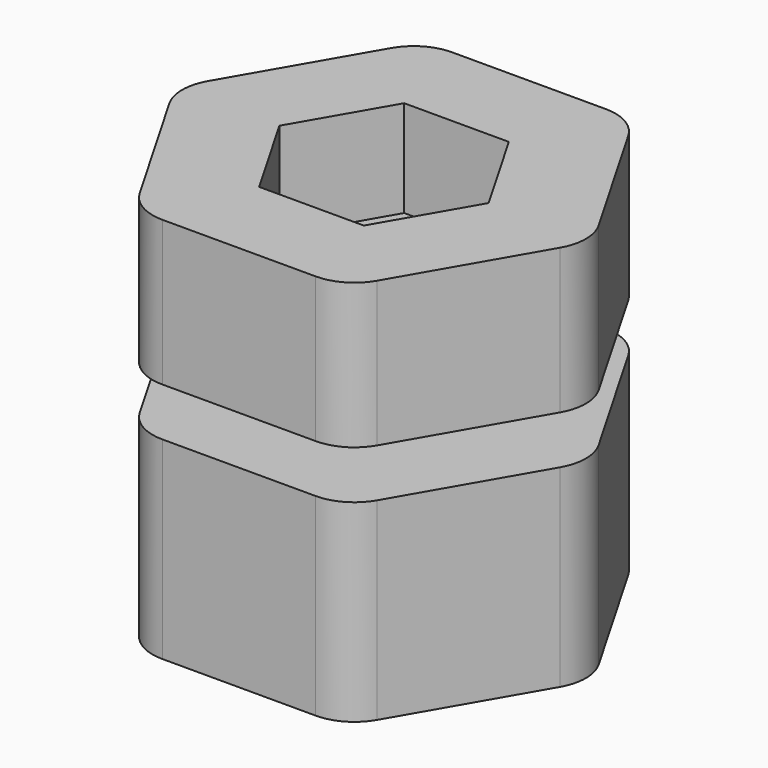
from build123d import *

# Parameters (mm, degrees)
F0_R     = 4.125
F0_R_2   = 3.625
F1_DEPTH = 8
F2_DEPTH = 6
F3_R     = 3.25
F4_DEPTH = 4
F5_R     = 3.25
F6_DEPTH = 6
F7_R     = 2.25
F8_DEPTH = 16.001
F9_DEPTH = 4
F10_R    = 2
F10_2_R  = 2


with BuildPart() as f1:
    # F0 (on Top) → F1 (new body)
    with BuildSketch(Plane.XY):
        Polygon((4.3301270189, 7.5), (-4.3301270189, 7.5), (-8.6602540378, 0), (-4.3301270189, -7.5), (4.3301270189, -7.5), (8.6602540378, 0), align=None)
        Circle(F0_R, mode=Mode.SUBTRACT)
        Circle(F0_R)
        Circle(F0_R_2, mode=Mode.SUBTRACT)
    extrude(amount=F1_DEPTH)

    # F0 (on Top) → F2 (cut)
    with BuildSketch(Plane.XY):
        Circle(F0_R)
        Circle(F0_R_2, mode=Mode.SUBTRACT)
    extrude(amount=F2_DEPTH, mode=Mode.SUBTRACT)

    # F10
    f10_edges = [f1.edges().sort_by_distance(p)[0] for p in [
        (-8.660254, 0, 4),
        (-4.330127, 7.5, 4),
        (-4.330127, -7.5, 4),
        (4.330127, -7.5, 4),
        (8.660254, 0, 4),
        (4.330127, 7.5, 4),
    ]]
    fillet(f10_edges, radius=F10_R)


with BuildPart() as f4:
    # F3 (on face) → F4 (new body)
    with BuildSketch(Plane(origin=(0, 0, 6), x_dir=(1, 0, 0), z_dir=(0, 0, -1))):
        Circle(F3_R)
    extrude(amount=-F4_DEPTH)

    # F5 (on face) → F6 (join)
    with BuildSketch(Plane.XY.offset(10)):
        Polygon((4.3301270189, 7.5), (-4.3301270189, 7.5), (-8.6602540378, 0), (-4.3301270189, -7.5), (4.3301270189, -7.5), (8.6602540378, 0), align=None)
        Circle(F5_R, mode=Mode.SUBTRACT)
        Circle(F5_R)
    extrude(amount=F6_DEPTH)

    # F7 (on face) → F8 (cut, through all)
    with BuildSketch(Plane.XY.offset(16)):
        Circle(F7_R)
    extrude(amount=-F8_DEPTH, mode=Mode.SUBTRACT)

    # F7 (on face) → F9 (cut)
    with BuildSketch(Plane.XY.offset(16)):
        Polygon((2.1650635095, 3.75), (-2.1650635095, 3.75), (-4.3301270189, 0), (-2.1650635095, -3.75), (2.1650635095, -3.75), (4.3301270189, 0), align=None)
        Circle(F7_R, mode=Mode.SUBTRACT)
    extrude(amount=-F9_DEPTH, mode=Mode.SUBTRACT)

    # F10#2
    f10_2_edges = [f4.edges().sort_by_distance(p)[0] for p in [
        (-8.660254, 0, 13),
        (-4.330127, 7.5, 13),
        (-4.330127, -7.5, 13),
        (4.330127, 7.5, 13),
        (8.660254, 0, 13),
        (4.330127, -7.5, 13),
    ]]
    fillet(f10_2_edges, radius=F10_2_R)


solid = Compound([f1.part, f4.part])
